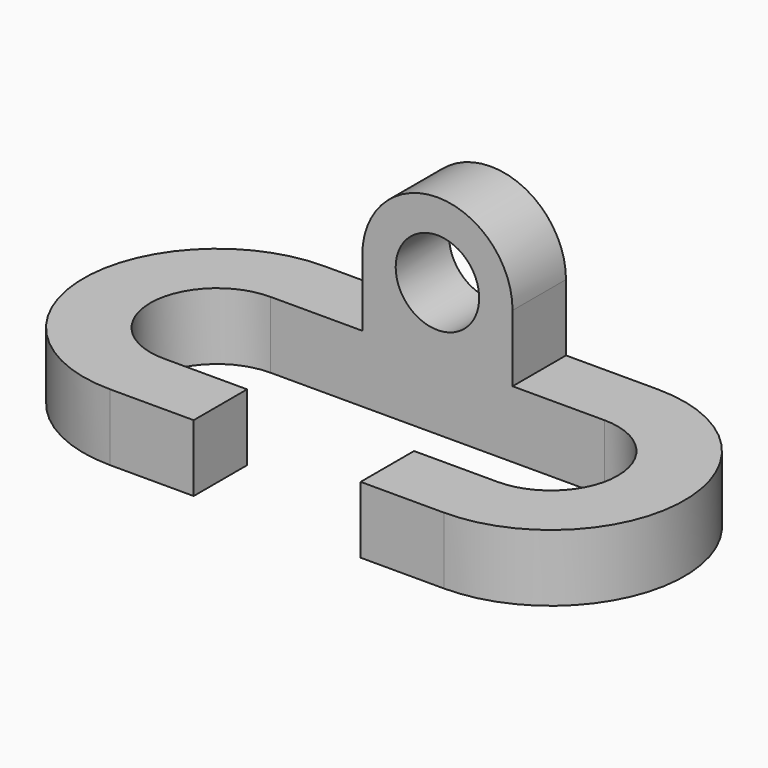
from build123d import *

# Parameters (mm, degrees)
F0_W     = 15.875
F0_H     = 12.7
F1_DEPTH = 12.7
F3_DEPTH = 12.7


with BuildPart() as f1:
    # F0 (on Top) → F1 (new body)
    with BuildSketch(Plane.XY):
        with Locations((23.8125, -19.05)):
            Rectangle(F0_W, F0_H)
        with BuildLine():
            ThreePointArc((31.75, 12.7), (44.45, 0), (31.75, -12.7))
            Line((31.75, -12.7), (31.75, -25.4))
            ThreePointArc((31.75, -25.4), (57.15, 0), (31.75, 25.4))
            Line((31.75, 25.4), (0, 25.4))
            Line((0, 25.4), (-31.75, 25.4))
            ThreePointArc((-31.75, 25.4), (-57.15, 0), (-31.75, -25.4))
            Line((-31.75, -25.4), (-15.875, -25.4))
            Line((-15.875, -25.4), (-15.875, -12.7))
            Line((-15.875, -12.7), (-31.75, -12.7))
            ThreePointArc((-31.75, -12.7), (-44.45, 0), (-31.75, 12.7))
            Line((-31.75, 12.7), (0, 12.7))
            Line((0, 12.7), (31.75, 12.7))
        make_face()
    extrude(amount=F1_DEPTH)

    # F2 (on face) → F3 (join)
    with BuildSketch(Plane.XZ.offset(-12.7)):
        with BuildLine():
            Line((14.2875, 25.4), (7.9375, 25.4))
            ThreePointArc((7.9375, 25.4), (0, 17.4625), (-7.9375, 25.4))
            Line((-7.9375, 25.4), (-14.2875, 25.4))
            Line((-14.2875, 25.4), (-14.2875, 12.7))
            Line((-14.2875, 12.7), (14.2875, 12.7))
            Line((14.2875, 12.7), (14.2875, 25.4))
        make_face()
        with BuildLine():
            ThreePointArc((-7.9375, 25.4), (0, 33.3375), (7.9375, 25.4))
            Line((7.9375, 25.4), (14.2875, 25.4))
            ThreePointArc((14.2875, 25.4), (0, 39.6875), (-14.2875, 25.4))
            Line((-14.2875, 25.4), (-7.9375, 25.4))
        make_face()
    extrude(amount=-F3_DEPTH)


solid = f1.part
